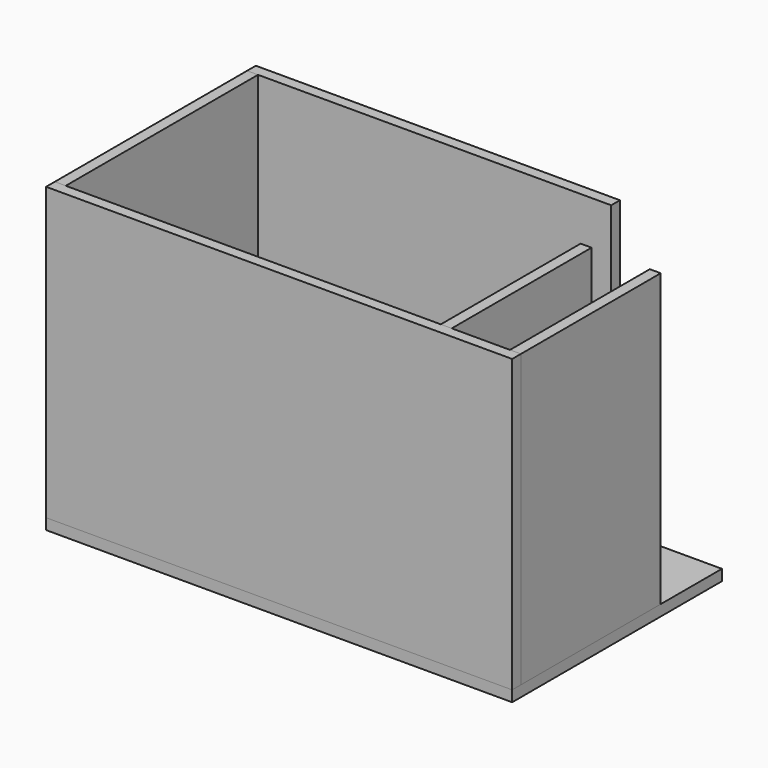
from build123d import *

# Parameters (mm, degrees)
F0_W      = 203.2
F0_H      = 114.3
F1_DEPTH  = 4.7625
F2_W      = 203.2
F2_H      = 127
F3_DEPTH  = 4.7625
F4_W      = 104.9904679537
F4_H      = 127
F5_DEPTH  = 4.7625
F6_W      = 158.75
F6_H      = 127
F7_DEPTH  = 4.7625
F8_W      = 76.2
F8_H      = 127
F9_DEPTH  = 4.7625
F11_W     = 76.2
F11_H     = 127
F12_DEPTH = 4.7625


with BuildPart() as f1:
    # F0 (on Top) → F1 (new body)
    with BuildSketch(Plane.XY):
        with Locations((-101.6, 57.15)):
            Rectangle(F0_W, F0_H)
    extrude(amount=F1_DEPTH)


with BuildPart() as f3:
    # F2 (on face) → F3 (new body)
    with BuildSketch(Plane.XZ):
        with Locations((-101.6, 68.2625)):
            Rectangle(F2_W, F2_H)
    extrude(amount=-F3_DEPTH)


with BuildPart() as f5:
    # F4 (on face) → F5 (new body)
    with BuildSketch(Plane(origin=(-203.2, 0, 0), x_dir=(0, -1, 0), z_dir=(-1, 0, 0))):
        with Locations((-57.2577339768, 68.2625)):
            Rectangle(F4_W, F4_H)
    extrude(amount=-F5_DEPTH)


with BuildPart() as f7:
    # F6 (on face) → F7 (new body)
    with BuildSketch(Plane(origin=(0, 114.3, 0), x_dir=(-1, 0, 0), z_dir=(0, 1, 0))):
        with Locations((123.825, 68.2625)):
            Rectangle(F6_W, F6_H)
    extrude(amount=-F7_DEPTH)


with BuildPart() as f9:
    # F8 (on face) → F9 (new body)
    with BuildSketch(Plane.YZ):
        with Locations((42.8625, 68.2625)):
            Rectangle(F8_W, F8_H)
    extrude(amount=-F9_DEPTH)


with BuildPart() as f12:
    # F11 (on offset) → F12 (new body)
    with BuildSketch(Plane(origin=(-30.1625, 0, 0), x_dir=(0, -1, 0), z_dir=(-1, 0, 0))):
        with Locations((-42.8625, 68.2625)):
            Rectangle(F11_W, F11_H)
    extrude(amount=F12_DEPTH)


solid = Compound([f1.part, f3.part, f5.part, f7.part, f9.part, f12.part])
